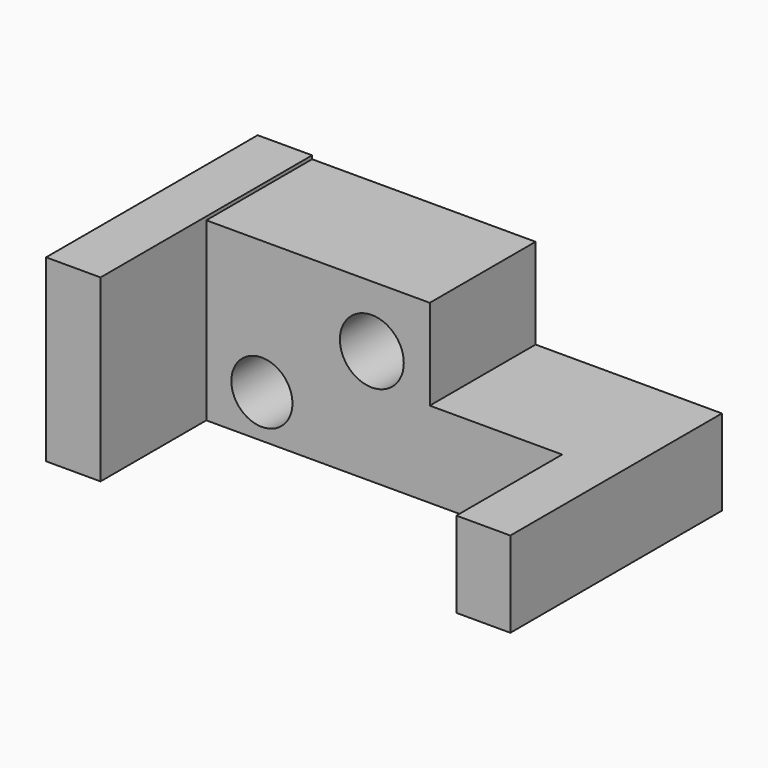
from build123d import *

# Parameters (mm, degrees)
F0_W     = 25.4334812053
F0_H     = 16.4515469223
F0_R     = 5.8677929032
F0_R_2   = 6.1354877086
F1_DEPTH = 25.4
F0_W_2   = 10.3633254766
F2_DEPTH = 50.8


with BuildPart() as f1:
    # F0 (on Front) → F1 (new body)
    with BuildSketch(Plane.XZ):
        with Locations((7.5681542512, -8.2257734612)):
            Rectangle(F0_W, F0_H)
        Polygon((-5.1485863514, 17.3840634525), (-48.0675809085, 17.3840634525), (-48.0675809085, -16.4515469223), (-5.1485863514, -16.4515469223), (-5.1485863514, 0), align=None)
        with Locations((-37.394605577, -8.2257734612)):
            Circle(F0_R, mode=Mode.SUBTRACT)
        with Locations((-16.2757337093, 5.5756638758)):
            Circle(F0_R_2, mode=Mode.SUBTRACT)
    extrude(amount=F1_DEPTH)

    # F0 (on Front) → F2 (join)
    with BuildSketch(Plane.XZ):
        with Locations((25.4665575922, -8.2257734612)):
            Rectangle(F0_W_2, F0_H)
        Polygon((-48.0675809085, -16.4515469223), (-48.0675809085, 17.3840634525), (-48.0675809085, 18.0452149361), (-58.5276037455, 18.0452149361), (-58.5276037455, -16.4515469223), align=None)
    extrude(amount=F2_DEPTH)


solid = f1.part
